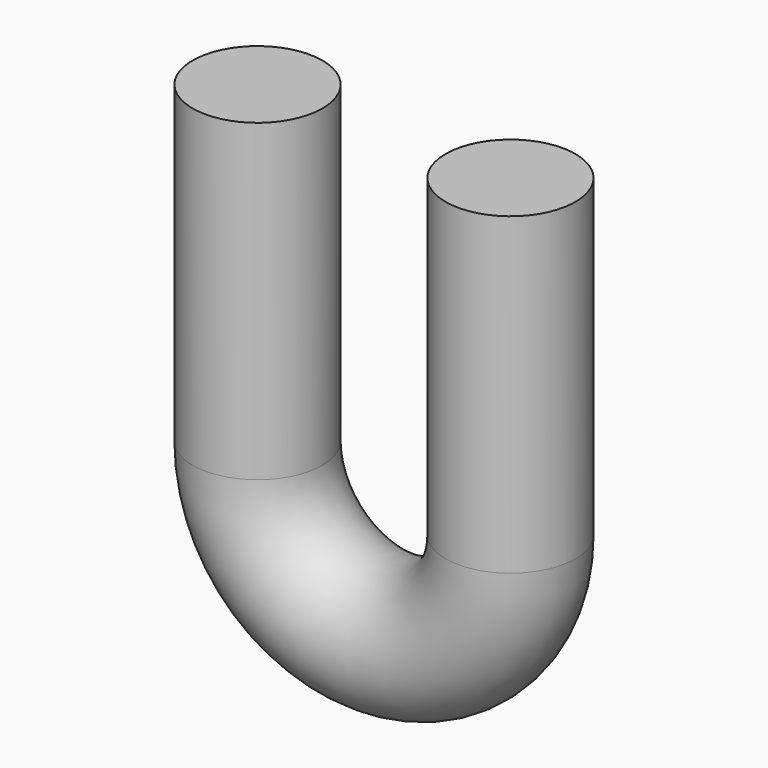
from build123d import *

# Parameters (mm, degrees)
F2_R = 17.0110130189


with BuildPart() as f3:
    # F3: sweep along a path in F0
    with BuildLine(Plane.XZ) as f3_path:
        Line((0, 0), (0, -82.3389291763))
        ThreePointArc((0, -82.3389291763), (-33.1455394626, -115.4844686389), (-66.2910789251, -82.3389291763))
        Line((-66.2910789251, -82.3389291763), (-66.2910789251, 0))
    # F2 (on line) → F3 (sweep)
    with BuildSketch(Plane.XY):
        with Locations((-66.2910789251, 0)):
            Circle(F2_R)
    sweep(path=f3_path.line)


solid = f3.part
